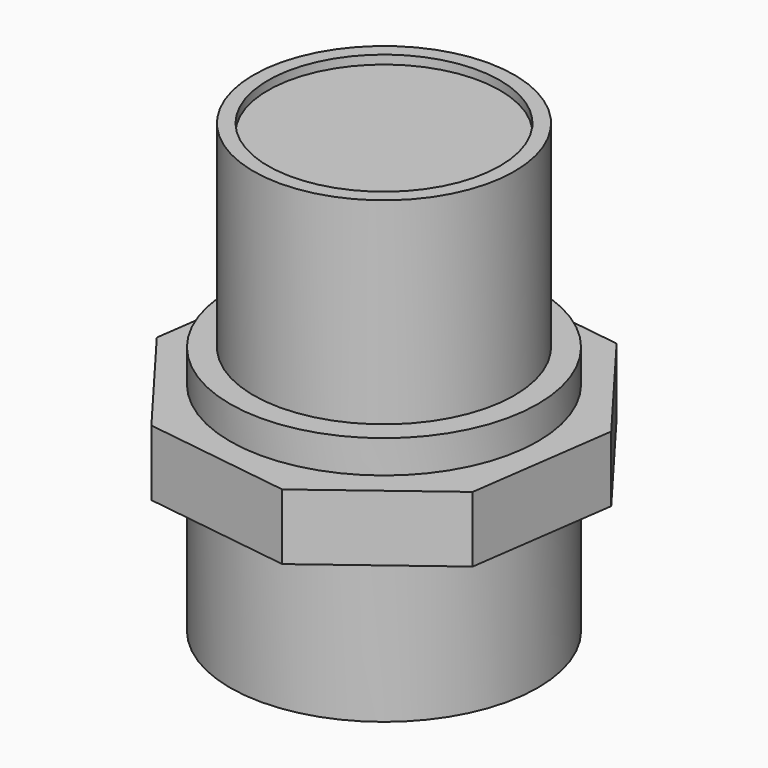
from build123d import *

# Parameters (mm, degrees)
F0_R     = 13.4462075072
F1_DEPTH = 50.8
F0_R_2   = 15.1279388752
F2_DEPTH = 51.816
F0_R_3   = 17.8416483947
F3_DEPTH = 28.956
F4_START = 17.526
F4_DEPTH = 7.62


with BuildPart() as f1:
    # F0 (on Top) → F1 (new body)
    with BuildSketch(Plane.XY):
        Circle(F0_R)
    extrude(amount=F1_DEPTH)

    # F0 (on Top) → F2 (join)
    with BuildSketch(Plane.XY):
        Circle(F0_R_2)
        Circle(F0_R, mode=Mode.SUBTRACT)
    extrude(amount=F2_DEPTH)

    # F0 (on Top) → F3 (join)
    with BuildSketch(Plane.XY):
        Circle(F0_R_3)
        Circle(F0_R_2, mode=Mode.SUBTRACT)
    extrude(amount=F3_DEPTH)

    # F0 (on Top) → F4 (join)
    with BuildSketch(Plane.XY.offset(F4_START)):
        Polygon((21.8152726681, 5.6546813213), (11.4272637293, 19.4241907448), (-5.6546813213, 21.8152726681), (-19.4241907448, 11.4272637293), (-21.8152726681, -5.6546813213), (-11.4272637293, -19.4241907448), (5.6546813213, -21.8152726681), (19.4241907448, -11.4272637293), align=None)
        Circle(F0_R_3, mode=Mode.SUBTRACT)
    extrude(amount=F4_DEPTH)


solid = f1.part
